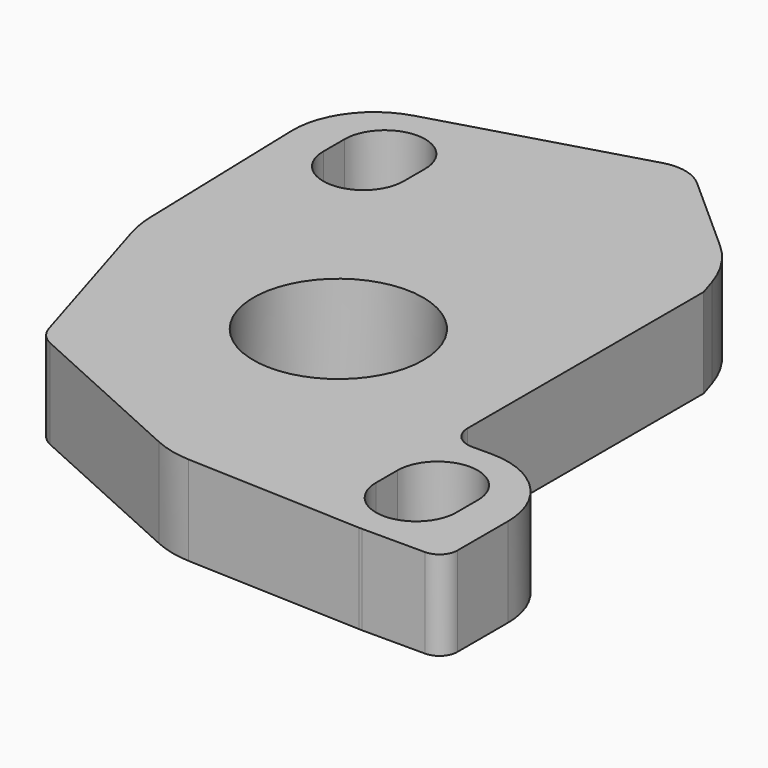
from build123d import *

# Parameters (mm, degrees)
F0_R     = 9.5
F1_DEPTH = 10


with BuildPart() as f1:
    # F0 (on Top) → F1 (new body)
    with BuildSketch(Plane.XY):
        with BuildLine():
            Line((0.545393, 36.038877), (-22.02152, 29.448028))
            ThreePointArc((-22.02152, 29.448028), (-26.833244, 26.063712), (-28.572816, 20.444089))
            Line((-28.572816, 20.444089), (-27.988367, 0.026176))
            ThreePointArc((-27.988367, 0.026176), (-27.827538, -1.655225), (-27.444354, -3.300261))
            Line((-27.444354, -3.300261), (-21.763491, -21.955443))
            ThreePointArc((-21.763491, -21.955443), (-21.078383, -23.186097), (-19.947006, -24.025066))
            Line((-19.947006, -24.025066), (-0.808983, -32.702572))
            ThreePointArc((-0.808983, -32.702572), (1.170286, -33.37879), (3.242493, -33.662925))
            Line((3.242493, -33.662925), (22.94121, -34.447196))
            ThreePointArc((22.94121, -34.447196), (23.121499, -34.452579), (23.30186, -34.454373))
            Line((23.30186, -34.454373), (30.367569, -34.454373))
            ThreePointArc((30.367569, -34.454373), (31.781783, -33.868586), (32.367569, -32.454373))
            Line((32.367569, -32.454373), (32.367569, -25.388663))
            ThreePointArc((32.367569, -25.388663), (29.712285, -18.978239), (23.30186, -16.322954))
            Line((23.30186, -16.322954), (21.110382, -16.322954))
            ThreePointArc((21.110382, -16.322954), (19.342615, -15.590721), (18.610382, -13.822954))
            Line((18.610382, -13.822954), (18.610382, 19.213525))
            Line((18.610382, 19.213525), (17.989468, 21.163003))
            ThreePointArc((17.989468, 21.163003), (16.488271, 24.335084), (14.202401, 26.99788))
            Line((14.202401, 26.99788), (5.242804, 34.979598))
            ThreePointArc((5.242804, 34.979598), (3.031016, 36.116406), (0.545393, 36.038877))
        make_face()
        with Locations((-1.962485, -6.192283)):
            Circle(F0_R, mode=Mode.SUBTRACT)
        with BuildLine():
            ThreePointArc((18.80186, -23.888663), (23.30186, -19.388663), (27.80186, -23.888663))
            Line((27.80186, -23.888663), (27.80186, -26.888663))
            ThreePointArc((27.80186, -26.888663), (23.30186, -31.388663), (18.80186, -26.888663))
            Line((18.80186, -26.888663), (18.80186, -23.888663))
        make_face(mode=Mode.SUBTRACT)
        with BuildLine():
            ThreePointArc((-23.967964, 22.20471), (-19.467964, 26.70471), (-14.967964, 22.20471))
            Line((-14.967964, 22.20471), (-14.967964, 19.20471))
            ThreePointArc((-14.967964, 19.20471), (-19.467964, 14.70471), (-23.967964, 19.20471))
            Line((-23.967964, 19.20471), (-23.967964, 22.20471))
        make_face(mode=Mode.SUBTRACT)
    extrude(amount=F1_DEPTH)


solid = f1.part
